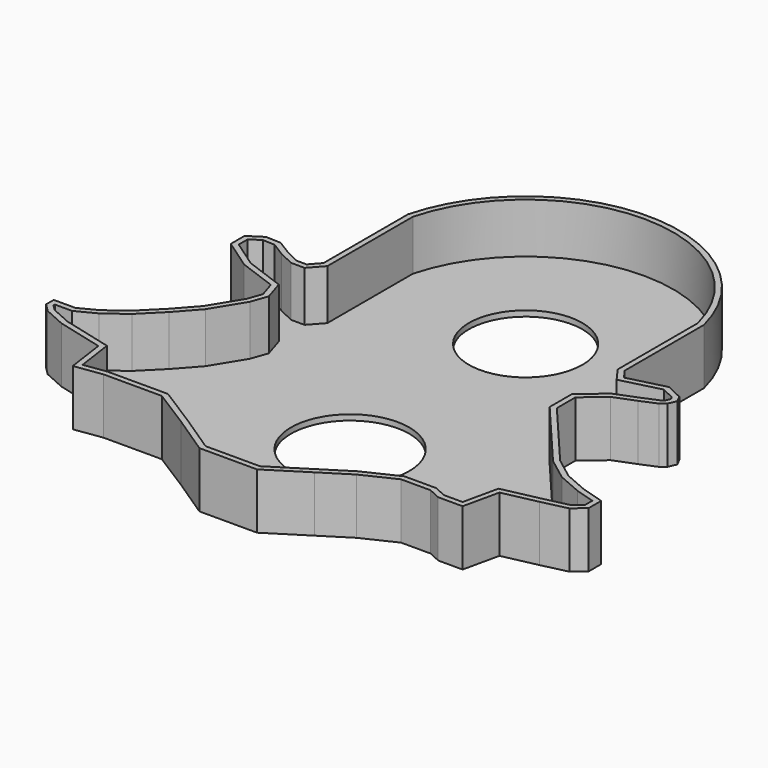
from build123d import *

# Parameters (mm, degrees)
F1_DEPTH = 10
F2_T     = -1
F3_R     = 10.1798341208
F3_R_2   = 10.6098641694
F4_DEPTH = 1.001


with BuildPart() as f1:
    # F0 (on Top) → F1 (new body)
    with BuildSketch(Plane.XY):
        with BuildLine():
            Line((25.9413104504, 10.6388526037), (25.9413104504, 28.418853879))
            ThreePointArc((25.9413104504, 28.418853879), (-0.6152572854, 49.3227077034), (-27.3986887187, 28.7103280425))
            Line((-27.3986887187, 28.7103280425), (-27.3986887187, 9.7644263878))
            Line((-27.3986887187, 9.7644263878), (-29.000794515, 7.9723494127))
            Line((-29.000794515, 7.9723494127), (-30.7569466531, 7.9723494127))
            Line((-30.7569466531, 7.9723494127), (-33.2814157009, 9.1797038913))
            Line((-33.2814157009, 9.1797038913), (-35.9156429768, 10.8260978013))
            Line((-35.9156429768, 10.8260978013), (-38.659632206, 10.9358569607))
            Line((-38.659632206, 10.9358569607), (-41.1841012537, 9.289463982))
            Line((-41.1841012537, 9.289463982), (-41.1841012537, 6.216196809))
            Line((-41.1841012537, 6.216196809), (-35.8058847487, 2.4843721185))
            Line((-35.8058847487, 2.4843721185), (-29.0309265256, 0))
            Line((-29.0309265256, 0), (-28.1227175146, -2.8938457835))
            Line((-28.1227175146, -2.8938457835), (-29.0309265256, -5.4257945158))
            Line((-29.0309265256, -5.4257945158), (-32.3780551553, -10.902912356))
            Line((-32.3780551553, -10.902912356), (-35.7251800597, -14.6557530388))
            Line((-35.7251800597, -14.6557530388), (-39.3765941262, -18.3071661741))
            Line((-39.3765941262, -18.3071661741), (-42.9265759885, -20.944295451))
            Line((-42.9265759885, -20.944295451), (-46.0708513856, -22.5671455264))
            Line((-46.0708513856, -22.5671455264), (-49.9251186848, -22.5671455264))
            Line((-49.9251186848, -22.5671455264), (-49.9251186848, -24.2914240807))
            Line((-49.9251186848, -24.2914240807), (-48.5051237047, -25.7114171982))
            Line((-48.5051237047, -25.7114171982), (-44.6508564055, -27.4356938899))
            Line((-44.6508564055, -27.4356938899), (-36.3175208918, -29.5778558365))
            Line((-36.3175208918, -29.5778558365), (-35.3194698691, -36.5642234683))
            Line((-35.3194698691, -36.5642234683), (-30.3494930267, -35.8542278409))
            Line((-30.3494930267, -35.8542278409), (-19.9023969471, -35.8542278409))
            Line((-19.9023969471, -35.8542278409), (-13.0052855238, -40.2156375349))
            Line((-13.0052855238, -40.2156375349), (-5.9053180739, -44.9333089781))
            Line((-5.9053180739, -44.9333089781), (4.4327859365, -44.9333089781))
            Line((4.4327859365, -44.9333089781), (11.2596079707, -40.6216345727))
            Line((11.2596079707, -40.6216345727), (16.2748470902, -37.4541170895))
            Line((16.2748470902, -37.4541170895), (22.0819637179, -34.6825383604))
            Line((22.0819637179, -34.6825383604), (27.3611601442, -34.6825383604))
            Line((27.3611601442, -34.6825383604), (29.5388307422, -35.6723889709))
            Line((29.5388307422, -35.6723889709), (33.9104868472, -35.6723889709))
            Line((33.9104868472, -35.6723889709), (35.3459455073, -29.2053706944))
            Line((35.3459455073, -29.2053706944), (41.483014822, -27.8855711222))
            Line((41.483014822, -27.8855711222), (45.9846592715, -26.8396986936))
            Line((45.9846592715, -26.8396986936), (48.0585619807, -25.0806845725))
            Line((48.0585619807, -25.0806845725), (48.0585619807, -22.2740583122))
            Line((48.0585619807, -22.2740583122), (43.8938885927, -21.0065506399))
            Line((43.8938885927, -21.0065506399), (39.72921893, -19.1958248615))
            Line((39.72921893, -19.1958248615), (35.9230749309, -16.3158885314))
            Line((35.9230749309, -16.3158885314), (31.6239426274, -11.2471502964))
            Line((31.6239426274, -11.2471502964), (28.0989827636, -7.0911723973))
            Line((28.0989827636, -7.0911723973), (25.6186239421, -4.1667940095))
            Line((25.6186239421, -4.1667940095), (25.6186239421, 0))
            Line((25.6186239421, 0), (29.3620377779, 3.1750369817))
            Line((29.3620377779, 3.1750369817), (33.1457033753, 4.6643526293))
            Line((33.1457033753, 4.6643526293), (35.9230749309, 5.8316537179))
            Line((35.9230749309, 5.8316537179), (36.8488691747, 6.5561858937))
            Line((36.8488691747, 6.5561858937), (37.4928973615, 8.005249314))
            Line((37.4928973615, 8.005249314), (36.8488691747, 9.2530548573))
            Line((36.8488691747, 9.2530548573), (33.9104868472, 10.6388526037))
            Line((33.9104868472, 10.6388526037), (27.1884426475, 8.9310398325))
            Line((27.1884426475, 8.9310398325), (25.9413104504, 10.6388526037))
        make_face()
    extrude(amount=F1_DEPTH)

    # F2
    f2_openings = [f1.faces().sort_by_distance(p)[0] for p in [
        (-0.960702, -0.889332, 10),
    ]]
    offset(amount=F2_T, openings=f2_openings, kind=Kind.INTERSECTION)

    # F3 (on face) → F4 (cut, through all)
    with BuildSketch(Plane.XY.offset(1)):
        with Locations((-0.76559461, 21.8108601041)):
            Circle(F3_R)
        with Locations((0, -18.508689478)):
            Circle(F3_R_2)
    extrude(amount=-F4_DEPTH, mode=Mode.SUBTRACT)


solid = f1.part
